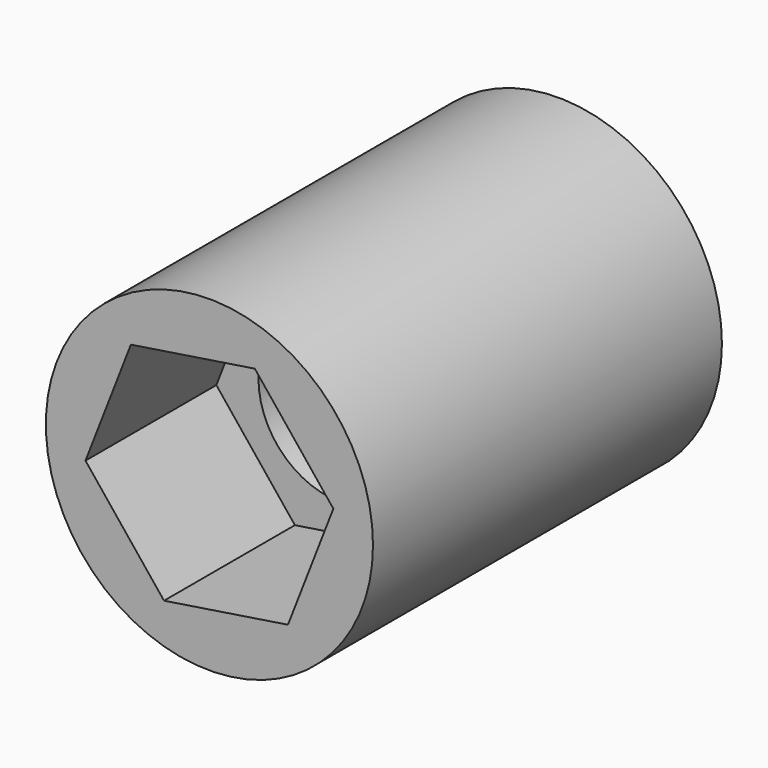
from build123d import *

# Parameters (mm, degrees)
F0_R          = 9.525
F1_DEPTH      = 25.4
F3_DEPTH      = 50.8
F3_DEPTH_BACK = 25.4
F4_DEPTH      = 11.0998
F5_DEPTH      = 11.0998
F7_DEPTH      = 9.525


with BuildPart() as f1:
    # F0 (on Front) → F1 (new body)
    with BuildSketch(Plane.XZ):
        Circle(F0_R)
    extrude(amount=F1_DEPTH)

    # F2 (on Front) → F3 (cut, two sides)
    with BuildSketch(Plane.XZ) as f3_sk:
        with BuildLine():
            ThreePointArc((-4.7625, 0), (-3.3675960454, -3.3675960454), (0, -4.7625))
            ThreePointArc((0, -4.7625), (3.3675960454, -3.3675960454), (4.7625, 0))
            ThreePointArc((4.7625, 0), (3.3675960454, 3.3675960454), (0, 4.7625))
            ThreePointArc((0, 4.7625), (-3.3675960454, 3.3675960454), (-4.7625, 0))
        make_face()
    extrude(amount=-F3_DEPTH, mode=Mode.SUBTRACT)
    extrude(f3_sk.sketch, amount=F3_DEPTH_BACK, mode=Mode.SUBTRACT)

    # F2 (on Front) → F4 (cut)
    with BuildSketch(Plane.XZ):
        with BuildLine():
            Line((0, -4.7625), (4.7625, -4.7625))
            Line((4.7625, -4.7625), (4.7625, 0))
            ThreePointArc((4.7625, 0), (3.3675960454, -3.3675960454), (0, -4.7625))
        make_face()
        with BuildLine():
            Line((-4.7625, -4.7625), (0, -4.7625))
            ThreePointArc((0, -4.7625), (-3.3675960454, -3.3675960454), (-4.7625, 0))
            Line((-4.7625, 0), (-4.7625, -4.7625))
        make_face()
        with BuildLine():
            ThreePointArc((-4.7625, 0), (-3.3675960454, -3.3675960454), (0, -4.7625))
            ThreePointArc((0, -4.7625), (3.3675960454, -3.3675960454), (4.7625, 0))
            ThreePointArc((4.7625, 0), (3.3675960454, 3.3675960454), (0, 4.7625))
            ThreePointArc((0, 4.7625), (-3.3675960454, 3.3675960454), (-4.7625, 0))
        make_face()
        with BuildLine():
            ThreePointArc((0, 4.7625), (3.3675960454, 3.3675960454), (4.7625, 0))
            Line((4.7625, 0), (4.7625, 4.7625))
            Line((4.7625, 4.7625), (0, 4.7625))
        make_face()
        with BuildLine():
            Line((-4.7625, 4.7625), (-4.7625, 0))
            ThreePointArc((-4.7625, 0), (-3.3675960454, 3.3675960454), (0, 4.7625))
            Line((0, 4.7625), (-4.7625, 4.7625))
        make_face()
    extrude(amount=-F4_DEPTH, mode=Mode.SUBTRACT)

    # F2 (on Front) → F5 (cut)
    with BuildSketch(Plane.XZ):
        with BuildLine():
            Line((0, -4.7625), (4.7625, -4.7625))
            Line((4.7625, -4.7625), (4.7625, 0))
            ThreePointArc((4.7625, 0), (3.3675960454, -3.3675960454), (0, -4.7625))
        make_face()
        with BuildLine():
            Line((-4.7625, -4.7625), (0, -4.7625))
            ThreePointArc((0, -4.7625), (-3.3675960454, -3.3675960454), (-4.7625, 0))
            Line((-4.7625, 0), (-4.7625, -4.7625))
        make_face()
        with BuildLine():
            ThreePointArc((-4.7625, 0), (-3.3675960454, -3.3675960454), (0, -4.7625))
            ThreePointArc((0, -4.7625), (3.3675960454, -3.3675960454), (4.7625, 0))
            ThreePointArc((4.7625, 0), (3.3675960454, 3.3675960454), (0, 4.7625))
            ThreePointArc((0, 4.7625), (-3.3675960454, 3.3675960454), (-4.7625, 0))
        make_face()
        with BuildLine():
            ThreePointArc((0, 4.7625), (3.3675960454, 3.3675960454), (4.7625, 0))
            Line((4.7625, 0), (4.7625, 4.7625))
            Line((4.7625, 4.7625), (0, 4.7625))
        make_face()
        with BuildLine():
            Line((-4.7625, 4.7625), (-4.7625, 0))
            ThreePointArc((-4.7625, 0), (-3.3675960454, 3.3675960454), (0, 4.7625))
            Line((0, 4.7625), (-4.7625, 4.7625))
        make_face()
    extrude(amount=F5_DEPTH, mode=Mode.SUBTRACT)

    # F6 (on face) → F7 (cut)
    with BuildSketch(Plane.XZ.offset(25.4)):
        Polygon((7.2169456481, 1.1145410546), (2.6432519572, 6.8073287963), (-4.5736936909, 5.6927877417), (-7.2169456481, -1.1145410546), (-2.6432519572, -6.8073287963), (4.5736936909, -5.6927877417), align=None)
    extrude(amount=-F7_DEPTH, mode=Mode.SUBTRACT)


solid = f1.part
